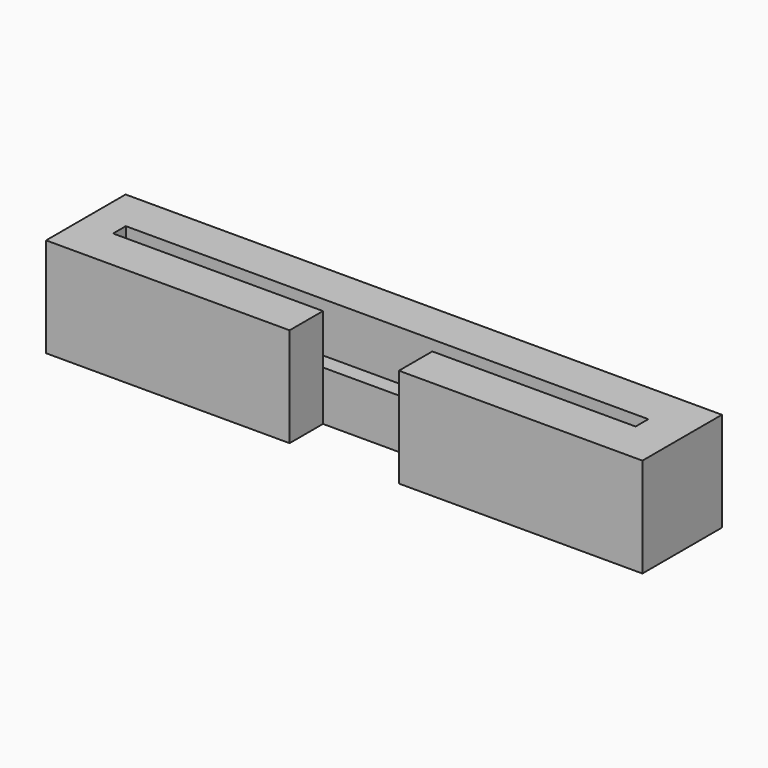
from build123d import *

# Parameters (mm, degrees)
F0_W     = 60
F0_H     = 10
F1_DEPTH = 10
F2_W     = 52.573141
F2_H     = 1.6
F3_DEPTH = 5
F4_W     = 11
F4_H     = 4.2
F5_DEPTH = 10.001


with BuildPart() as f1:
    # F0 (on Front) → F1 (new body)
    with BuildSketch(Plane.XZ):
        with Locations((5.357166, -16.956311)):
            Rectangle(F0_W, F0_H)
    extrude(amount=F1_DEPTH)

    # F2 (on face) → F3 (cut)
    with BuildSketch(Plane.XY.offset(-11.956311)):
        with Locations((5.024185, -5)):
            Rectangle(F2_W, F2_H)
    extrude(amount=-F3_DEPTH, mode=Mode.SUBTRACT)

    # F4 (on face) → F5 (cut, through all)
    with BuildSketch(Plane.XY.offset(-11.956311)):
        with Locations((5.357166, -7.9)):
            Rectangle(F4_W, F4_H)
    extrude(amount=-F5_DEPTH, mode=Mode.SUBTRACT)


solid = f1.part
